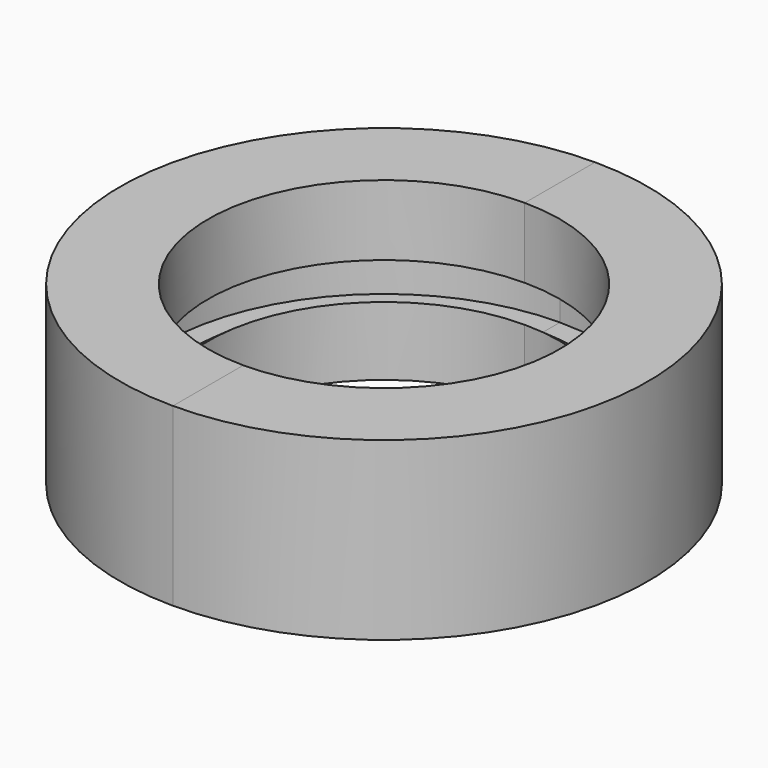
from build123d import *

# Parameters (mm, degrees)
F1_ANGLE = 180


with BuildPart() as f1:
    # F0 (on Front) → F1 (revolve, symmetric)
    with BuildSketch(Plane.XZ) as f1_sk:
        Polygon((25.4, -2.794), (25.4, -12.7), (38.1, -12.7), (38.1, 12.7), (25.4, 12.7), (25.4, 2.54), (28.575, 5.08), (31.75, 5.08), (31.75, -5.08), (28.575, -5.08), align=None)
    revolve(axis=Axis((0, 0, 0.881031), (0, 0, -1)), revolution_arc=F1_ANGLE / 2)
    revolve(f1_sk.sketch, axis=Axis((0, 0, 0.881031), (0, 0, 1)), revolution_arc=F1_ANGLE / 2)


with BuildPart() as f2_1:
    # F2: instance of F1
    add(f1.part.mirror(Plane.YZ))


solid = Compound([f1.part, f2_1.part])
